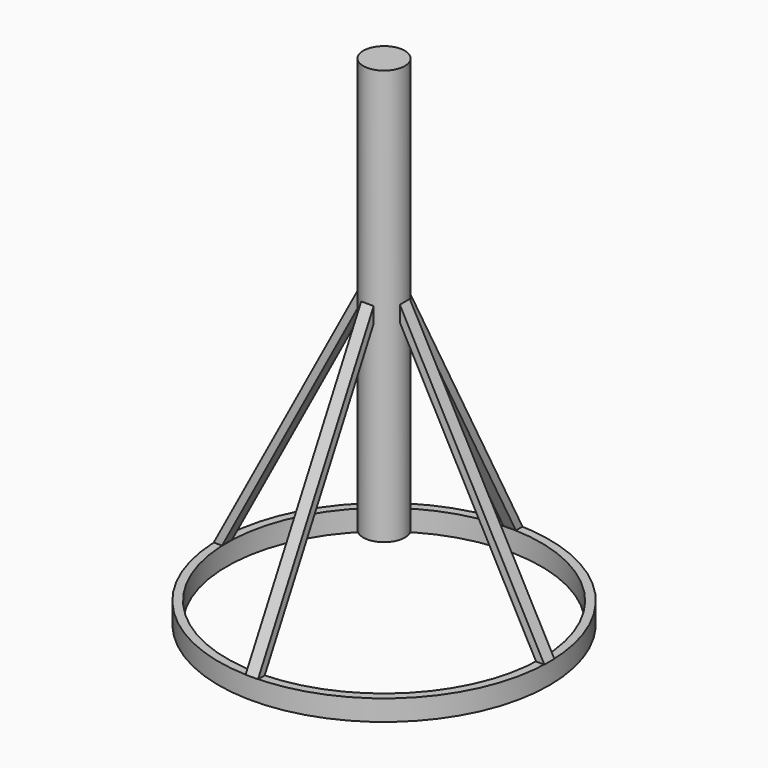
from build123d import *

# Parameters (mm, degrees)
F0_R     = 39.825
F0_R_2   = 37.825
F1_DEPTH = 5
F3_R     = 5
F4_DEPTH = 100
F6_DEPTH = 1.5
F7_COUNT = 4


with BuildPart() as f1:
    # F0 (on Top) → F1 (new body)
    with BuildSketch(Plane.XY):
        Circle(F0_R)
        Circle(F0_R_2, mode=Mode.SUBTRACT)
    extrude(amount=F1_DEPTH)


with BuildPart() as f4:
    # F3 (on offset) → F4 (new body)
    with BuildSketch(Plane.XY.offset(20)):
        Circle(F3_R)
    extrude(amount=F4_DEPTH)


with BuildPart() as f6:
    # F5 (on Front) → F6 (new body, symmetric)
    with BuildSketch(Plane.XZ):
        Polygon((-5, 70), (-39.825, 5), (-37.825, 5), (-5, 66.26705), align=None)
    extrude(amount=F6_DEPTH, both=True)


with BuildPart() as f7_1:
    # F7: instance of F6
    add(f6.part.rotate(Axis((0, 0, 20), (0, 0, 1)), 1 * 360 / F7_COUNT))


with BuildPart() as f7_2:
    # F7: instance of F6
    add(f6.part.rotate(Axis((0, 0, 20), (0, 0, 1)), 2 * 360 / F7_COUNT))


with BuildPart() as f7_3:
    # F7: instance of F6
    add(f6.part.rotate(Axis((0, 0, 20), (0, 0, 1)), 3 * 360 / F7_COUNT))


solid = Compound([f1.part, f4.part, f6.part, f7_1.part, f7_2.part, f7_3.part])
